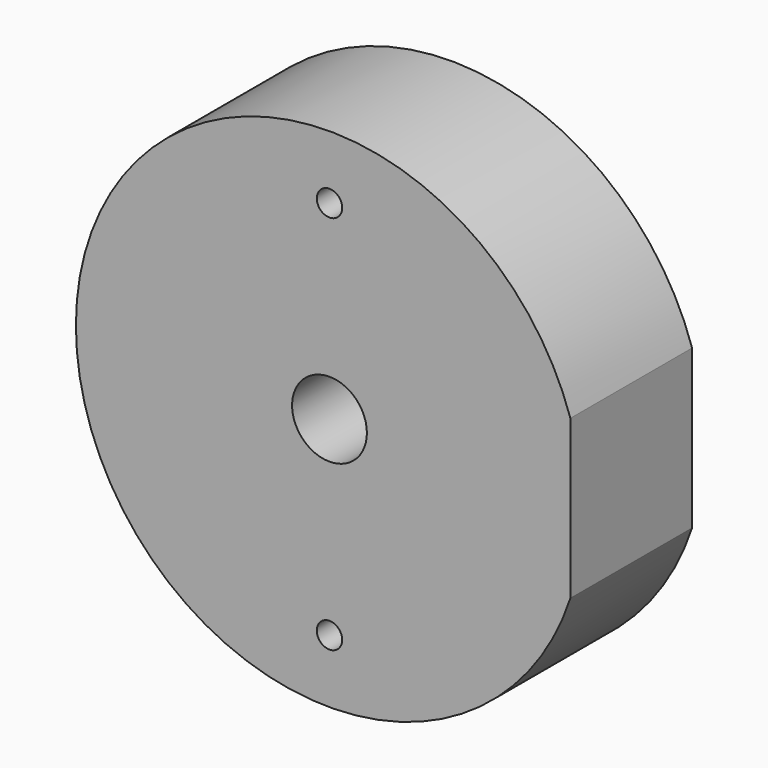
from build123d import *

# Parameters (mm, degrees)
F0_R     = 1
F0_R_2   = 2.95
F1_DEPTH = 6


with BuildPart() as f1:
    # F0 (on Front) → F1 (new body, symmetric)
    with BuildSketch(Plane.XZ):
        with BuildLine():
            Line((19, -6.244998), (19, 6.244998))
            ThreePointArc((19, 6.244998), (-20, 0), (19, -6.244998))
        make_face()
        with Locations((0, -15)):
            Circle(F0_R, mode=Mode.SUBTRACT)
        Circle(F0_R_2, mode=Mode.SUBTRACT)
        with Locations((0, 15)):
            Circle(F0_R, mode=Mode.SUBTRACT)
    extrude(amount=F1_DEPTH, both=True)


solid = f1.part
